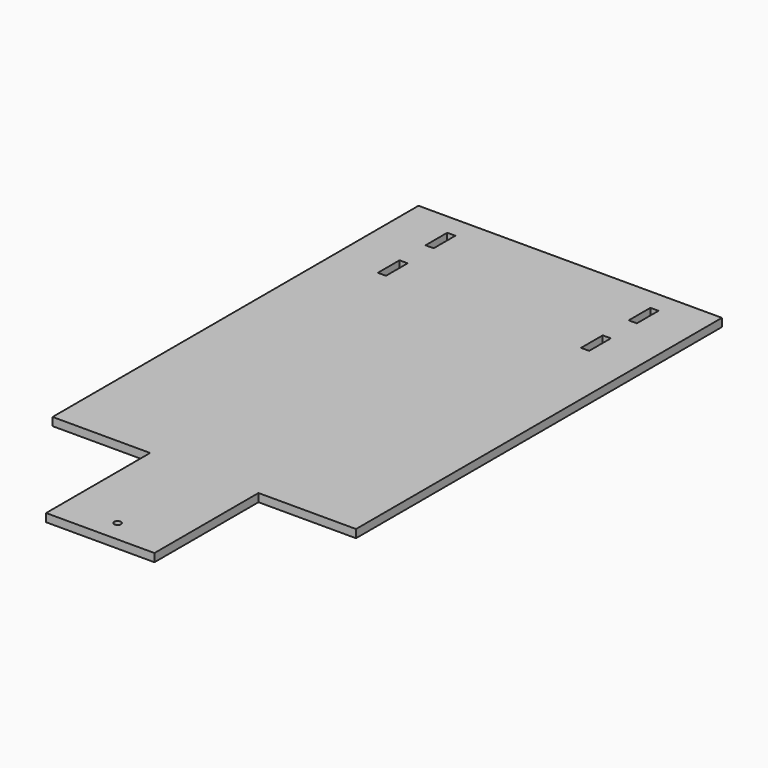
from build123d import *

# Parameters (mm, degrees)
F0_W     = 19.05
F0_H     = 63.5
F1_DEPTH = 19.05
F2_R     = 7.9375
F3_DEPTH = 19.05


with BuildPart() as f1:
    # F0 (on Top) → F1 (new body)
    with BuildSketch(Plane.XY):
        Polygon((762, 1371.6), (50.8, 1371.6), (50.8, 299.550803), (279.4, 299.550803), (279.4, 197.950803), (279.4, -5.249197), (533.4, -5.249197), (533.4, 197.950803), (533.4, 299.550803), (762, 299.550803), align=None)
        with Locations((168.275, 1149.35)):
            Rectangle(F0_W, F0_H, mode=Mode.SUBTRACT)
        with Locations((168.275, 1289.05)):
            Rectangle(F0_W, F0_H, mode=Mode.SUBTRACT)
        with Locations((644.525, 1149.35)):
            Rectangle(F0_W, F0_H, mode=Mode.SUBTRACT)
        with Locations((644.525, 1289.05)):
            Rectangle(F0_W, F0_H, mode=Mode.SUBTRACT)
    extrude(amount=F1_DEPTH)

    # F2 (on face) → F3 (cut, through all)
    with BuildSketch(Plane.XY.offset(19.05)):
        with Locations((406.4, 45.550803)):
            Circle(F2_R)
    extrude(amount=-F3_DEPTH, mode=Mode.SUBTRACT)


solid = f1.part
